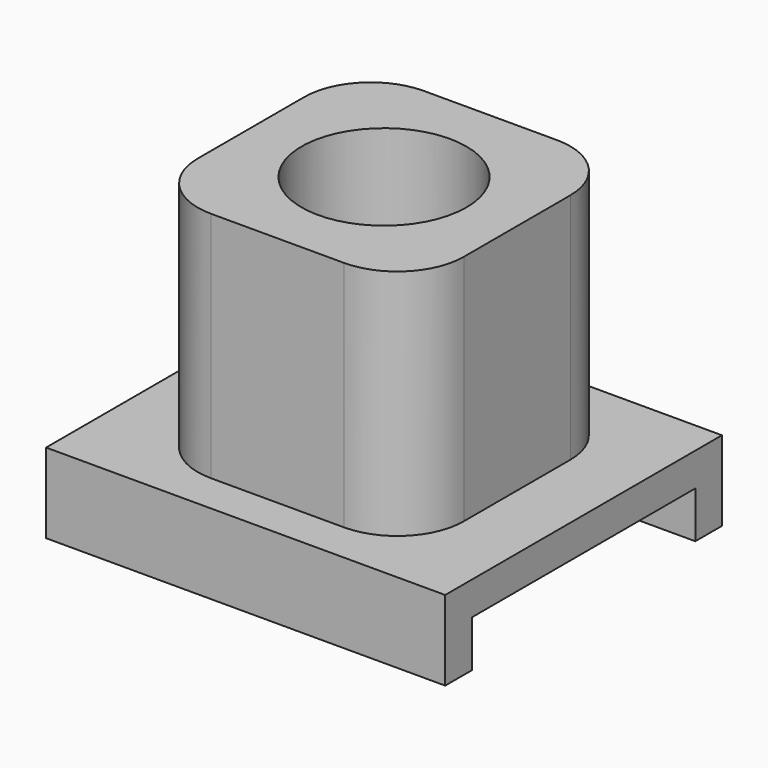
from build123d import *

# Parameters (mm, degrees)
SKETCH_W        = 30
SKETCH_H        = 26
PAD_DEPTH       = 6
SKETCH001_W     = 46
SKETCH001_H     = 21
POCKET_DEPTH    = 3.5
SKETCH003_W     = 20
SKETCH003_H     = 20
PAD001_DEPTH    = 18.5
SKETCH004_R     = 6.2
POCKET001_DEPTH = 14
POCKET002_DEPTH = 3.5
SKETCH006_R     = 2.5
POCKET003_DEPTH = 6.001
FILLET_R        = 5


with BuildPart() as part:
    # Sketch → Pad (new body)
    with BuildSketch(Plane.XY):
        Rectangle(SKETCH_W, SKETCH_H)
    extrude(amount=PAD_DEPTH)

    # Sketch001 (on Face5 of Pad) → Pocket (cut)
    with BuildSketch(Plane(origin=(0, 0, 0), x_dir=(1, 0, 0), z_dir=(0, 0, -1))):
        Rectangle(SKETCH001_W, SKETCH001_H)
    extrude(amount=-POCKET_DEPTH, mode=Mode.SUBTRACT)

    # Sketch003 → Pad001 (join)
    with BuildSketch(Plane.XY.offset(5)):
        Rectangle(SKETCH003_W, SKETCH003_H)
    extrude(amount=PAD001_DEPTH)

    # Sketch004 (on Face15 of Pad001) → Pocket001 (cut)
    with BuildSketch(Plane.XY.offset(23.5)):
        Circle(SKETCH004_R)
    extrude(amount=-POCKET001_DEPTH, mode=Mode.SUBTRACT)

    # Sketch005 (on Face17 of Pocket001) → Pocket002 (cut)
    with BuildSketch(Plane.XY.offset(9.5)):
        Polygon((2.107328, -3.65), (4.214657, 0), (2.107328, 3.65), (-2.107328, 3.65), (-4.214657, 0), (-2.107328, -3.65), align=None)
    extrude(amount=-POCKET002_DEPTH, mode=Mode.SUBTRACT)

    # Sketch006 (on Face24 of Pocket002) → Pocket003 (cut, through all)
    with BuildSketch(Plane.XY.offset(6)):
        Circle(SKETCH006_R)
    extrude(amount=-POCKET003_DEPTH, mode=Mode.SUBTRACT)

    # Fillet
    fillet_edges = [part.edges().sort_by_distance(p)[0] for p in [
        (-10, 10, 14.75),
        (10, 10, 14.75),
        (10, -10, 14.75),
        (-10, -10, 14.75),
    ]]
    fillet(fillet_edges, radius=FILLET_R)


solid = part.part
